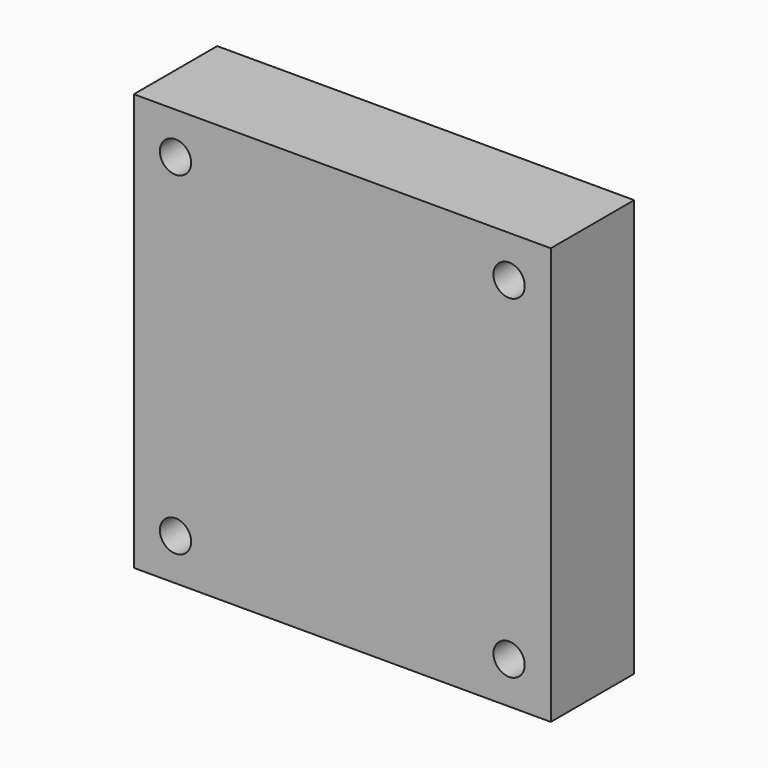
from build123d import *

# Parameters (mm, degrees)
F0_W     = 15
F0_H     = 20
F0_R     = 1.25
F0_R_2   = 1.4668994292
F1_DEPTH = 5
F2_W     = 40
F2_H     = 40
F2_R     = 1.5
F2_W_2   = 15
F2_H_2   = 20
F2_R_2   = 1.25
F3_DEPTH = 10
F4_R     = 2.5


with BuildPart() as f1:
    # F0 (on Front) → F1 (new body)
    with BuildSketch(Plane.XZ):
        with Locations((2.2486895237, 35.21458745)):
            Rectangle(F0_W, F0_H)
        with BuildLine():
            ThreePointArc((2.2486895237, 31.46458745), (3.1325730002, 31.0984709265), (3.4986895237, 30.21458745))
            ThreePointArc((3.4986895237, 30.21458745), (1.3648060472, 29.3307039735), (2.2486895237, 31.46458745))
        make_face(mode=Mode.SUBTRACT)
        with Locations((-2.2513104763, 40.21458745)):
            Circle(F0_R, mode=Mode.SUBTRACT)
        with Locations((6.7486895237, 40.21458745)):
            Circle(F0_R_2, mode=Mode.SUBTRACT)
    extrude(amount=F1_DEPTH)

    # F2 (on face) → F3 (join)
    with BuildSketch(Plane.XZ.offset(5)):
        with Locations((2.2486895237, 35.21458745)):
            Rectangle(F2_W, F2_H)
        with Locations((-13.7513104763, 19.21458745)):
            Circle(F2_R, mode=Mode.SUBTRACT)
        with Locations((2.2486895237, 35.21458745)):
            Rectangle(F2_W_2, F2_H_2, mode=Mode.SUBTRACT)
        with Locations((18.2486895237, 19.21458745)):
            Circle(F2_R, mode=Mode.SUBTRACT)
        with Locations((-13.7513104763, 51.21458745)):
            Circle(F2_R, mode=Mode.SUBTRACT)
        with Locations((18.2486895237, 51.21458745)):
            Circle(F2_R, mode=Mode.SUBTRACT)
        with BuildLine():
            Line((9.7486895237, 25.21458745), (9.7486895237, 45.21458745))
            Line((9.7486895237, 45.21458745), (7.0718369676, 41.6454507086))
            ThreePointArc((7.0718369676, 41.6454507086), (7.8945120964, 41.1304938683), (8.2155889529, 40.21458745))
            ThreePointArc((8.2155889529, 40.21458745), (7.1158037309, 38.7943687717), (5.4655420798, 39.5037241914))
            Line((5.4655420798, 39.5037241914), (-5.2513104763, 25.21458745))
            Line((-5.2513104763, 25.21458745), (9.7486895237, 25.21458745))
        make_face()
        with Locations((2.2486895237, 30.21458745)):
            Circle(F2_R_2, mode=Mode.SUBTRACT)
        with BuildLine():
            Line((7.0718369676, 41.6454507086), (9.7486895237, 45.21458745))
            Line((9.7486895237, 45.21458745), (-5.2513104763, 45.21458745))
            Line((-5.2513104763, 45.21458745), (-5.2513104763, 25.21458745))
            Line((-5.2513104763, 25.21458745), (5.4655420798, 39.5037241914))
            ThreePointArc((5.4655420798, 39.5037241914), (5.5751699804, 41.0947271075), (7.0718369676, 41.6454507086))
        make_face()
        with Locations((-2.2513104763, 40.21458745)):
            Circle(F2_R_2, mode=Mode.SUBTRACT)
        with BuildLine():
            ThreePointArc((8.2155889529, 40.21458745), (7.8945120964, 41.1304938683), (7.0718369676, 41.6454507086))
            Line((7.0718369676, 41.6454507086), (5.4655420798, 39.5037241914))
            ThreePointArc((5.4655420798, 39.5037241914), (7.1158037309, 38.7943687717), (8.2155889529, 40.21458745))
        make_face()
        with Locations((-2.2513104763, 40.21458745)):
            Circle(F2_R_2)
        with BuildLine():
            Line((5.4655420798, 39.5037241914), (7.0718369676, 41.6454507086))
            ThreePointArc((7.0718369676, 41.6454507086), (5.5751699804, 41.0947271075), (5.4655420798, 39.5037241914))
        make_face()
        with Locations((2.2486895237, 30.21458745)):
            Circle(F2_R_2)
    extrude(amount=F3_DEPTH)

    # F4
    f4_edges = [f1.edges().sort_by_distance(p)[0] for p in [
        (-5.25131, -5, 35.214587),
        (2.24869, -5, 25.214587),
        (9.74869, -5, 35.214587),
        (2.24869, -5, 45.214587),
    ]]
    fillet(f4_edges, radius=F4_R)


solid = f1.part
